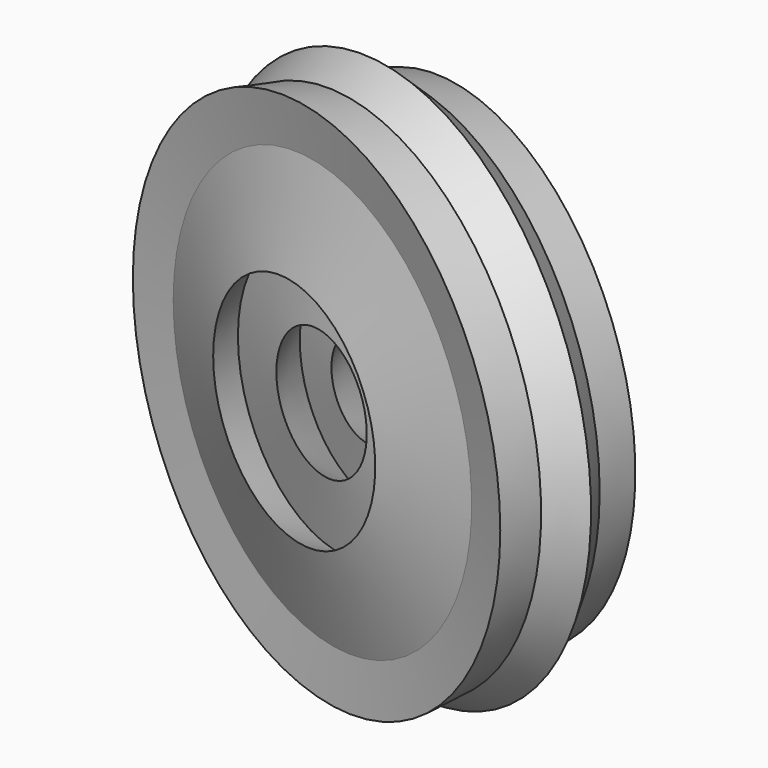
from build123d import *


with BuildPart() as f1:
    # F0 (on Top) → F1 (revolve)
    with BuildSketch(Plane.XY):
        Polygon((-115.35806, -15.976095), (-127.390557, -22.441317), (-124.337537, -38.245195), (-132.059885, -54.228663), (-112.484628, -58.000044), (-78.36262, -80.089555), (-80.697283, -64.465263), (-55.554753, -76.138583), (-63.456689, -54.228663), (-43.70184, -62.66937), (-52.86091, -31.959562), (-39.032516, -26.931056), (-64.175046, -15.976095), (-58.248594, 0.18696), (-93.807319, -10.767997), (-106.019405, -1.249754), align=None)
    revolve(axis=Axis((-21.009779, -52.6792, 0), (-0.29869, -0.95435, 0)))


solid = f1.part
